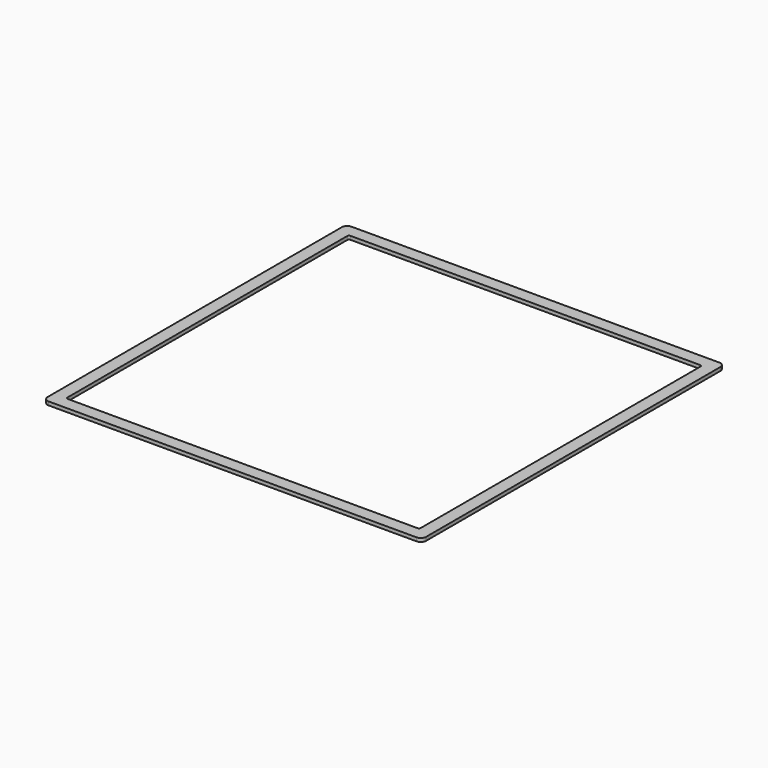
from build123d import *

# Parameters (mm, degrees)
F0_W     = 150
F0_H     = 150
F0_W_2   = 140
F0_H_2   = 140
F1_DEPTH = 1.4
F2_R     = 2.1
F3_R     = 0.7
F4_R     = 2.1
F5_R     = 2.1
F6_R     = 0.7
F7_R     = 2.1
F8_R     = 0.7
F9_R     = 0.7


with BuildPart() as f1:
    # F0 (on Top) → F1 (new body)
    with BuildSketch(Plane.XY):
        Rectangle(F0_W, F0_H)
        Rectangle(F0_W_2, F0_H_2, mode=Mode.SUBTRACT)
    extrude(amount=F1_DEPTH)

    # F2
    f2_edges = [f1.edges().sort_by_distance(p)[0] for p in [
        (75, 75, 0.7),
    ]]
    fillet(f2_edges, radius=F2_R)

    # F3
    f3_edges = [f1.edges().sort_by_distance(p)[0] for p in [
        (70, 70, 0.7),
    ]]
    fillet(f3_edges, radius=F3_R)

    # F4
    f4_edges = [f1.edges().sort_by_distance(p)[0] for p in [
        (-75, 75, 0.7),
    ]]
    fillet(f4_edges, radius=F4_R)

    # F5
    f5_edges = [f1.edges().sort_by_distance(p)[0] for p in [
        (-75, -75, 0.7),
    ]]
    fillet(f5_edges, radius=F5_R)

    # F6
    f6_edges = [f1.edges().sort_by_distance(p)[0] for p in [
        (-70, -70, 0.7),
    ]]
    fillet(f6_edges, radius=F6_R)

    # F7
    f7_edges = [f1.edges().sort_by_distance(p)[0] for p in [
        (75, -75, 0.7),
    ]]
    fillet(f7_edges, radius=F7_R)

    # F8
    f8_edges = [f1.edges().sort_by_distance(p)[0] for p in [
        (70, -70, 0.7),
    ]]
    fillet(f8_edges, radius=F8_R)

    # F9
    f9_edges = [f1.edges().sort_by_distance(p)[0] for p in [
        (-70, 70, 0.7),
    ]]
    fillet(f9_edges, radius=F9_R)


solid = f1.part
